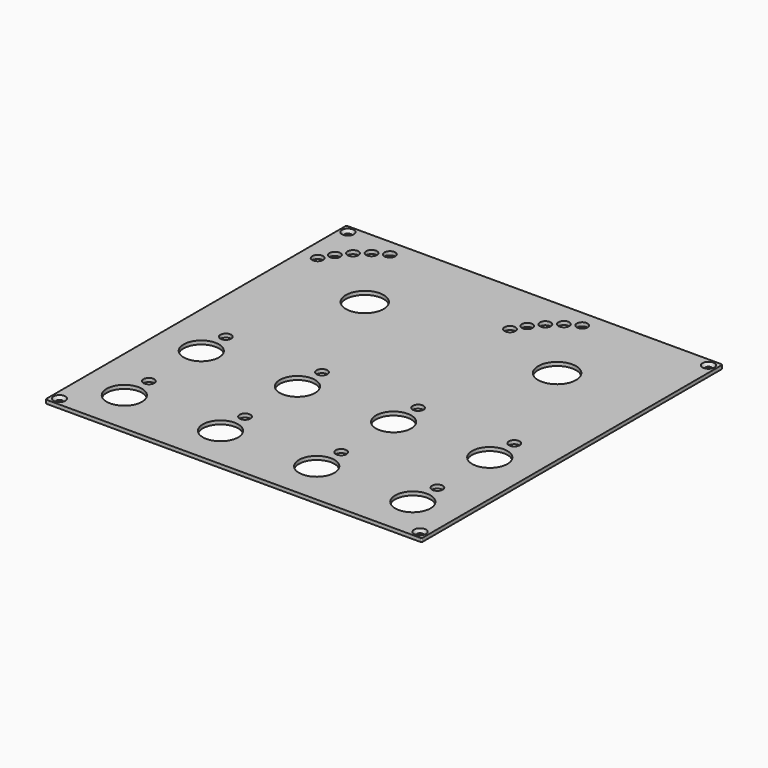
from build123d import *

# Parameters (mm, degrees)
PAD_DEPTH        = 1
POCKET_DEPTH     = 0.001
HOLE_D           = 1.75
HOLE_CSINK_D     = 3.3
HOLE_CSINK_ANGLE = 90
SKETCH023_R      = 4.9
HOLE014_DEPTH    = 25
SKETCH024_R      = 1.5
HOLE015_DEPTH    = 25
SKETCH025_R      = 5.25
SKETCH025_R_2    = 1.5
POCKET007_DEPTH  = 5


with BuildPart() as part:
    # Sketch → Pad (new body)
    with BuildSketch(Plane.XY):
        with BuildLine():
            Line((-51.8, 52.175), (51.8, 52.175))
            ThreePointArc((52.175, 51.8), (52.065165, 52.065165), (51.8, 52.175))
            Line((52.175, 51.8), (52.175, -51.8))
            ThreePointArc((51.8, -52.175), (52.065165, -52.065165), (52.175, -51.8))
            Line((51.8, -52.175), (-51.8, -52.175))
            ThreePointArc((-52.175, -51.8), (-52.065165, -52.065165), (-51.8, -52.175))
            Line((-52.175, -51.8), (-52.175, 51.8))
            ThreePointArc((-51.8, 52.175), (-52.065165, 52.065165), (-52.175, 51.8))
        make_face()
    extrude(amount=-PAD_DEPTH)

    # Sketch002 → Pocket (cut, through all)
    with BuildSketch(Plane.XY.offset(-4.8)):
        with BuildLine():
            Line((-45, 50.175), (45, 50.175))
            ThreePointArc((45, 50.175), (45.353553, 50.321447), (45.5, 50.675))
            ThreePointArc((45.5, 50.675), (45.353553, 51.028553), (45, 51.175))
            Line((-45, 51.175), (45, 51.175))
            ThreePointArc((-45, 51.175), (-45.353553, 51.028553), (-45.5, 50.675))
            ThreePointArc((-45.5, 50.675), (-45.353553, 50.321447), (-45, 50.175))
        make_face()
        with BuildLine():
            Line((-45, -51.175), (45, -51.175))
            ThreePointArc((45, -51.175), (45.353553, -51.028553), (45.5, -50.675))
            ThreePointArc((45.5, -50.675), (45.353553, -50.321447), (45, -50.175))
            Line((-45, -50.175), (45, -50.175))
            ThreePointArc((-45, -50.175), (-45.353553, -50.321447), (-45.5, -50.675))
            ThreePointArc((-45.5, -50.675), (-45.353553, -51.028553), (-45, -51.175))
        make_face()
        with BuildLine():
            Line((51.175, -45), (51.175, 45))
            ThreePointArc((51.175, 45), (51.028553, 45.353553), (50.675, 45.5))
            ThreePointArc((50.675, 45.5), (50.321447, 45.353553), (50.175, 45))
            Line((50.175, -45), (50.175, 45))
            ThreePointArc((50.175, -45), (50.321447, -45.353553), (50.675, -45.5))
            ThreePointArc((50.675, -45.5), (51.028553, -45.353553), (51.175, -45))
        make_face()
        with BuildLine():
            Line((-50.175, -45), (-50.175, 45))
            ThreePointArc((-50.175, 45), (-50.321447, 45.353553), (-50.675, 45.5))
            ThreePointArc((-50.675, 45.5), (-51.028553, 45.353553), (-51.175, 45))
            Line((-51.175, -45), (-51.175, 45))
            ThreePointArc((-51.175, -45), (-51.028553, -45.353553), (-50.675, -45.5))
            ThreePointArc((-50.675, -45.5), (-50.321447, -45.353553), (-50.175, -45))
        make_face()
    extrude(amount=-POCKET_DEPTH, mode=Mode.SUBTRACT)

    # Hole (through all)
    with Locations(Plane.XY):
        with Locations((-50, 50), (50, 50), (50, -50), (-50, -50)):
            CounterSinkHole(HOLE_D / 2, HOLE_CSINK_D / 2, counter_sink_angle=HOLE_CSINK_ANGLE)

    # Sketch023 → Hole014 (cut)
    with BuildSketch(Plane.XY):
        with Locations((-40.005, -13.335)):
            Circle(SKETCH023_R)
        with Locations((-13.335, -13.335)):
            Circle(SKETCH023_R)
        with Locations((13.335, -13.335)):
            Circle(SKETCH023_R)
        with Locations((40.005, -13.335)):
            Circle(SKETCH023_R)
        with Locations((-40.005, -40.005)):
            Circle(SKETCH023_R)
        with Locations((-13.335, -40.005)):
            Circle(SKETCH023_R)
        with Locations((13.335, -40.005)):
            Circle(SKETCH023_R)
        with Locations((40.005, -40.005)):
            Circle(SKETCH023_R)
    extrude(amount=-HOLE014_DEPTH, mode=Mode.SUBTRACT)

    # Sketch024 → Hole015 (cut)
    with BuildSketch(Plane.XY):
        with Locations((-40.005, -4.835)):
            Circle(SKETCH024_R)
        with Locations((-13.335, -4.835)):
            Circle(SKETCH024_R)
        with Locations((13.335, -4.835)):
            Circle(SKETCH024_R)
        with Locations((40.005, -4.835)):
            Circle(SKETCH024_R)
        with Locations((-40.005, -31.505)):
            Circle(SKETCH024_R)
        with Locations((-13.335, -31.505)):
            Circle(SKETCH024_R)
        with Locations((13.335, -31.505)):
            Circle(SKETCH024_R)
        with Locations((40.005, -31.505)):
            Circle(SKETCH024_R)
    extrude(amount=-HOLE015_DEPTH, mode=Mode.SUBTRACT)

    # Sketch025 → Pocket007 (cut)
    with BuildSketch(Plane.XY):
        with Locations((-26.67, 26.67)):
            Circle(SKETCH025_R)
        with Locations((26.67, 26.67)):
            Circle(SKETCH025_R)
        with Locations((-47.515079, 36.39022)):
            Circle(SKETCH025_R_2)
        with Locations((-45.510497, 39.862258)):
            Circle(SKETCH025_R_2)
        with Locations((-42.933456, 42.933456)):
            Circle(SKETCH025_R_2)
        with Locations((-39.862258, 45.510497)):
            Circle(SKETCH025_R_2)
        with Locations((-36.39022, 47.515079)):
            Circle(SKETCH025_R_2)
        with Locations((5.824921, 36.39022)):
            Circle(SKETCH025_R_2)
        with Locations((7.829503, 39.862258)):
            Circle(SKETCH025_R_2)
        with Locations((10.406544, 42.933456)):
            Circle(SKETCH025_R_2)
        with Locations((13.477742, 45.510497)):
            Circle(SKETCH025_R_2)
        with Locations((16.94978, 47.515079)):
            Circle(SKETCH025_R_2)
    extrude(amount=-POCKET007_DEPTH, mode=Mode.SUBTRACT)


solid = part.part
